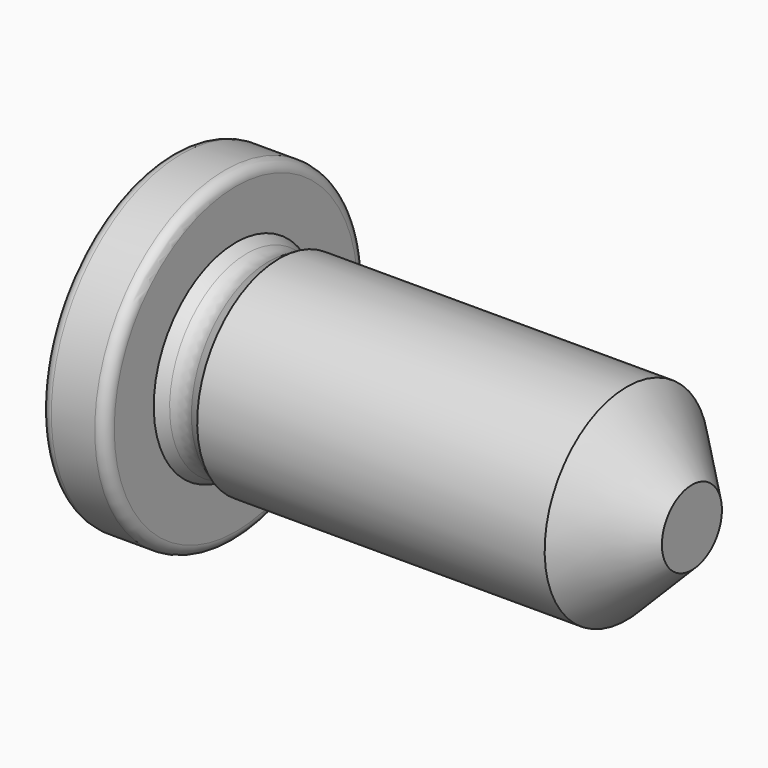
from build123d import *

# Parameters (mm, degrees)
F0_W     = 19
F0_H     = 4.72735
F2_R     = 1
F3_R     = 0.5
F4_SIZE2 = 3
F4_SIZE  = 3


with BuildPart() as f1:
    # F0 (on Front) → F1 (revolve)
    with BuildSketch(Plane.XZ):
        Polygon((0, 7.5), (0, 0), (3, 0), (3, 4.72735), (3, 7.5), align=None)
        Polygon((3, 4.72735), (3, 0), (4, 0), (4, 4.15), align=None)
        Polygon((4, 4.15), (4, 0), (5, 0), (5, 4.72735), align=None)
        with Locations((14.5, 2.363675)):
            Rectangle(F0_W, F0_H)
    revolve(axis=Axis((12, 0, 0), (1, 0, 0)))

    # F2
    f2_edges = [f1.edges().sort_by_distance(p)[0] for p in [
        (4, 0, -4.15),
    ]]
    fillet(f2_edges, radius=F2_R)

    # F3
    f3_edges = [f1.edges().sort_by_distance(p)[0] for p in [
        (0, 0, -7.5),
        (3, 0, -7.5),
    ]]
    fillet(f3_edges, radius=F3_R)

    # F4
    f4_edges = [f1.edges().sort_by_distance(p)[0] for p in [
        (24, 0, -4.72735),
    ]]
    chamfer(f4_edges, length=F4_SIZE, length2=F4_SIZE2)


solid = f1.part
